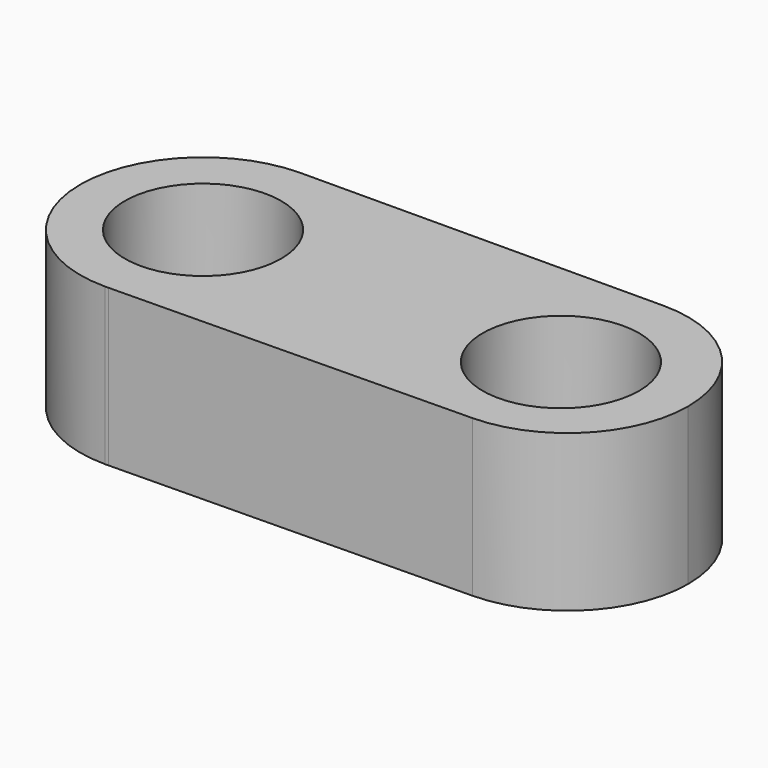
from build123d import *

# Parameters (mm, degrees)
F0_R     = 5
F1_DEPTH = 10


with BuildPart() as f1:
    # F0 (on Top) → F1 (new body)
    with BuildSketch(Plane.XY):
        with BuildLine():
            ThreePointArc((0.237756, -7.841041), (5.630434, -5.462296), (7.844645, 0))
            ThreePointArc((7.844645, 0), (5.547002, 5.547002), (0, 7.844645))
            ThreePointArc((0, 7.844645), (-7.844645, 0), (0, -7.844645))
            Line((0, -7.844645), (0.237756, -7.841041))
        make_face()
        Circle(F0_R, mode=Mode.SUBTRACT)
        with BuildLine():
            ThreePointArc((0, 7.844645), (5.547002, 5.547002), (7.844645, 0))
            ThreePointArc((7.844645, 0), (5.630434, -5.462296), (0.237756, -7.841041))
            Line((0.237756, -7.841041), (23.229579, -7.492543))
            ThreePointArc((23.229579, -7.492543), (15.388337, 0.154019), (23.075368, 7.955591))
            Line((23.075368, 7.955591), (0, 7.844645))
        make_face()
        with BuildLine():
            ThreePointArc((30.837062, 0.231125), (28.561446, 5.706325), (23.075368, 7.955591))
            ThreePointArc((23.075368, 7.955591), (15.388337, 0.154019), (23.229579, -7.492543))
            ThreePointArc((23.229579, -7.492543), (28.615828, -5.189411), (30.837062, 0.231125))
        make_face()
        with Locations((22.88138, 0)):
            Circle(F0_R, mode=Mode.SUBTRACT)
    extrude(amount=F1_DEPTH)


solid = f1.part
